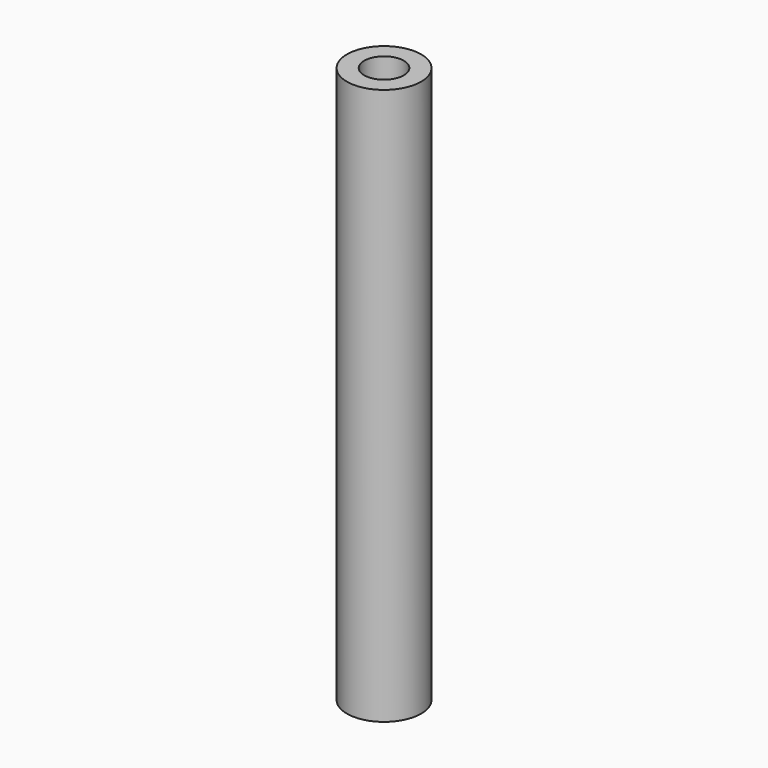
from build123d import *

# Parameters (mm, degrees)
SKETCH_R   = 3
SKETCH_R_2 = 1.6
PAD_DEPTH  = 45


with BuildPart() as part:
    # Sketch → Pad (new body)
    with BuildSketch(Plane.XY):
        Circle(SKETCH_R)
        Circle(SKETCH_R_2, mode=Mode.SUBTRACT)
    extrude(amount=PAD_DEPTH)


solid = part.part
